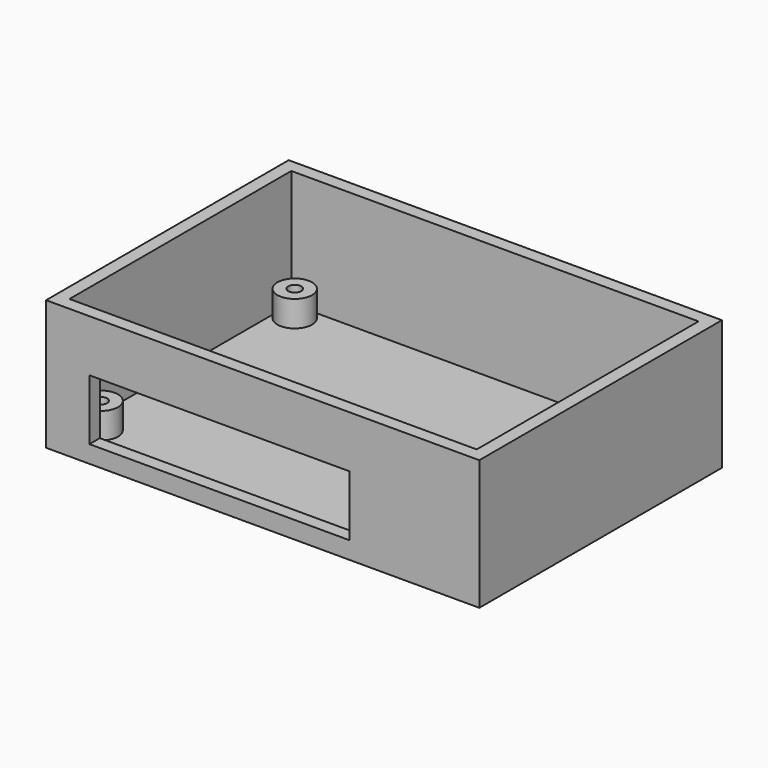
from build123d import *

# Parameters (mm, degrees)
F0_W     = 100
F0_H     = 70
F1_DEPTH = 30
F2_T     = -3
F3_R     = 4
F3_R_2   = 1.5
F4_DEPTH = 9
F5_W     = 60
F5_H     = 14
F6_DEPTH = 3


with BuildPart() as f1:
    # F0 (on Top) → F1 (new body)
    with BuildSketch(Plane.XY):
        Rectangle(F0_W, F0_H)
    extrude(amount=F1_DEPTH)

    # F2
    f2_openings = [f1.faces().sort_by_distance(p)[0] for p in [
        (0, 0, 30),
    ]]
    offset(amount=F2_T, openings=f2_openings)

    # F5 (on face) → F6 (cut)
    with BuildSketch(Plane.XZ.offset(35)):
        with Locations((-10, 11)):
            Rectangle(F5_W, F5_H)
    extrude(amount=-F6_DEPTH, mode=Mode.SUBTRACT)


with BuildPart() as f4:
    # F3 (on Top) → F4 (new body)
    with BuildSketch(Plane.XY):
        with Locations((-43, 28)):
            Circle(F3_R)
        with Locations((-43, 28)):
            Circle(F3_R_2, mode=Mode.SUBTRACT)
        with Locations((43, 28)):
            Circle(F3_R)
        with Locations((43, 28)):
            Circle(F3_R_2, mode=Mode.SUBTRACT)
        with Locations((43, -28)):
            Circle(F3_R)
        with Locations((43, -28)):
            Circle(F3_R_2, mode=Mode.SUBTRACT)
        with Locations((-43, -28)):
            Circle(F3_R)
        with Locations((-43, -28)):
            Circle(F3_R_2, mode=Mode.SUBTRACT)
    extrude(amount=F4_DEPTH)


solid = Compound([f1.part, f4.part])
